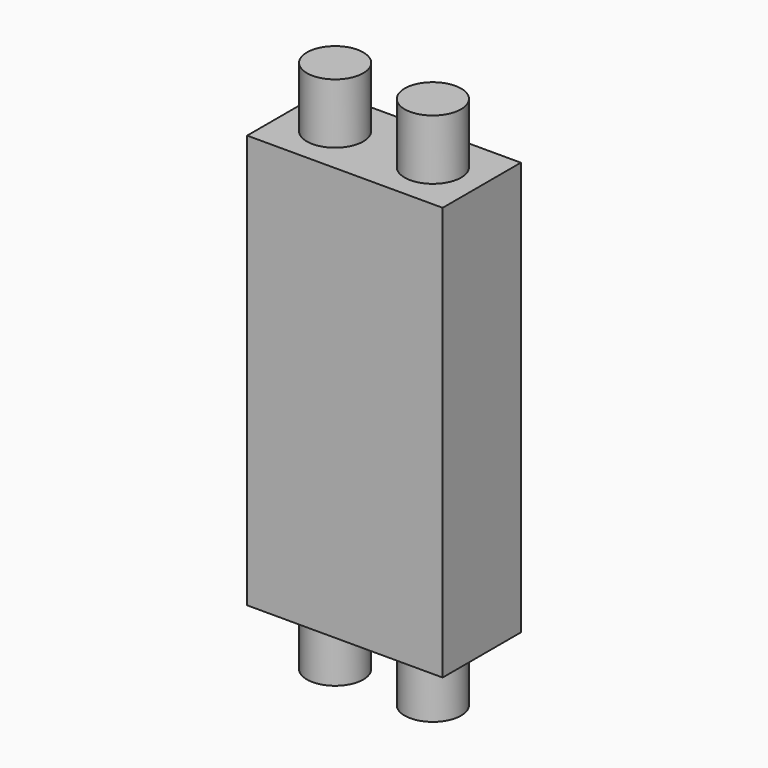
from build123d import *

# Parameters (mm, degrees)
F0_W     = 5.2
F0_H     = 2.6
F1_DEPTH = 11
F2_R     = 0.75
F3_DEPTH = 1.6
F4_R     = 0.75
F5_DEPTH = 1.6


with BuildPart() as f1:
    # F0 (on Top) → F1 (new body)
    with BuildSketch(Plane.XY):
        with Locations((2.6, 1.3)):
            Rectangle(F0_W, F0_H)
    extrude(amount=F1_DEPTH)

    # F2 (on face) → F3 (join)
    with BuildSketch(Plane.XY.offset(11)):
        with Locations((1.3, 1.3)):
            Circle(F2_R)
        with Locations((3.9, 1.3)):
            Circle(F2_R)
    extrude(amount=F3_DEPTH)

    # F4 (on face) → F5 (join)
    with BuildSketch(Plane(origin=(0, 0, 0), x_dir=(1, 0, 0), z_dir=(0, 0, -1))):
        with Locations((1.3, -1.3)):
            Circle(F4_R)
        with Locations((3.9, -1.3)):
            Circle(F4_R)
    extrude(amount=F5_DEPTH)


solid = f1.part
